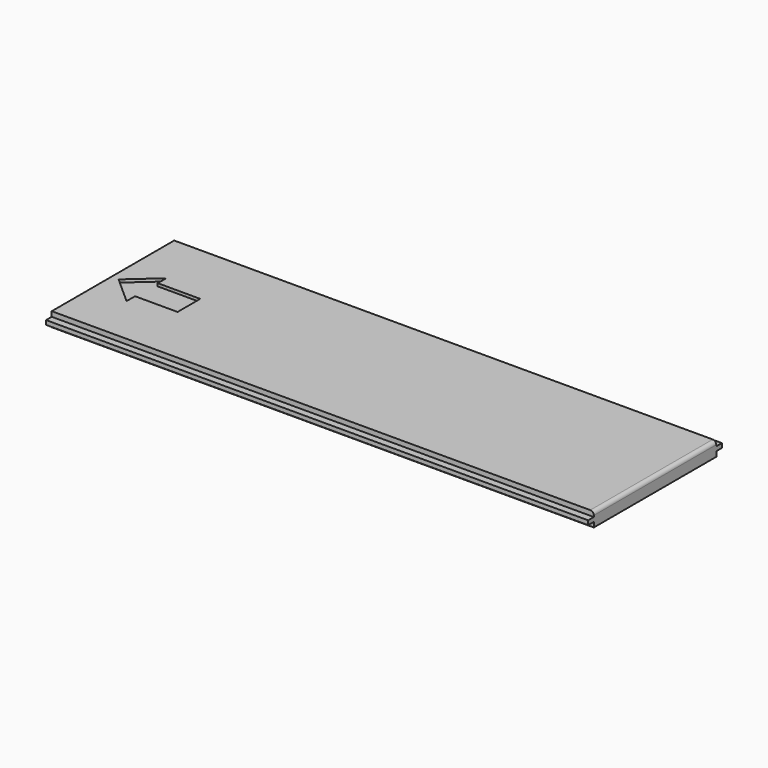
from build123d import *

# Parameters (mm, degrees)
F0_W     = 194.31
F0_H     = 54.864
F1_DEPTH = 5.08
F3_DEPTH = 194.31
F4_R     = 1.27
F6_DEPTH = 1.016


with BuildPart() as f1:
    # F0 (on Top) → F1 (new body)
    with BuildSketch(Plane.XY):
        with Locations((65.120992, 0.720159)):
            Rectangle(F0_W, F0_H)
    extrude(amount=F1_DEPTH)

    # F2 (on face) → F3 (join, through all)
    with BuildSketch(Plane(origin=(-32.034008, 0, 0), x_dir=(0, -1, 0), z_dir=(-1, 0, 0))):
        Polygon((-28.152159, 1.778), (-28.152159, 3.302), (-30.692159, 3.302), (-30.692159, 2.54), (-30.692159, 1.778), align=None)
        Polygon((29.251841, 3.302), (26.711841, 3.302), (26.711841, 1.778), (29.251841, 1.778), (29.251841, 2.54), align=None)
    extrude(amount=-F3_DEPTH)

    # F4
    f4_edges = [f1.edges().sort_by_distance(p)[0] for p in [
        (162.275992, 0.720159, 5.08),
    ]]
    fillet(f4_edges, radius=F4_R)

    # F5 (on face) → F6 (cut)
    with BuildSketch(Plane.XY.offset(5.08)):
        Polygon((-4.237764, -5.08), (-4.237764, 0), (-4.237764, 5.08), (-19.477764, 5.08), (-19.477764, 8.89), (-29.445775, 0), (-19.477764, -8.89), (-19.477764, -5.08), align=None)
    extrude(amount=-F6_DEPTH, mode=Mode.SUBTRACT)


solid = f1.part
